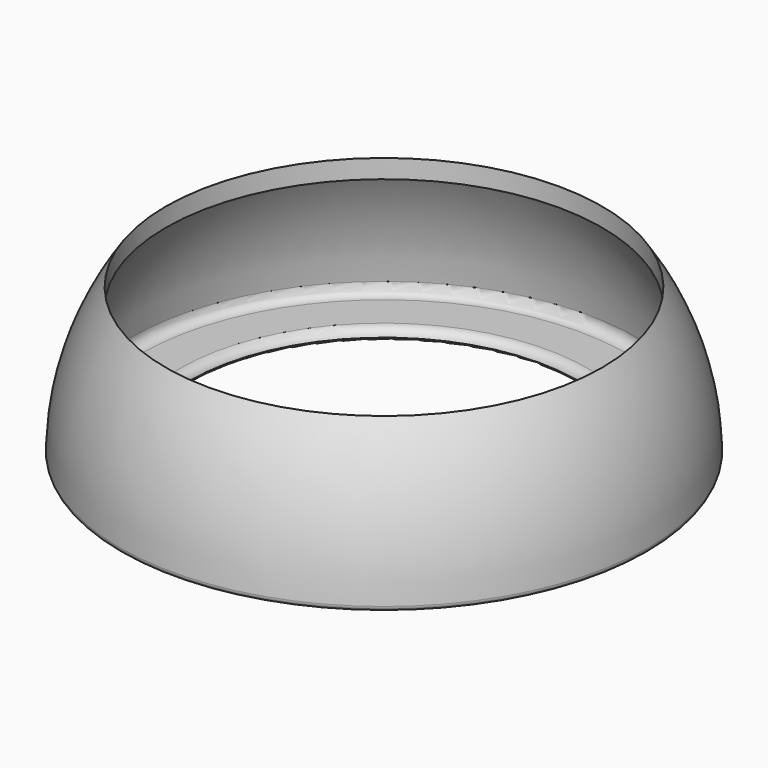
from build123d import *


with BuildPart() as f1:
    # F0 (on Front) → F1 (revolve)
    with BuildSketch(Plane.XZ):
        with BuildLine():
            Line((-43.383302, 25.883763), (-43.383302, 29.598001))
            ThreePointArc((-43.383302, 29.598001), (-50.029792, 15.97412), (-52.508222, 1.019411))
            ThreePointArc((-52.508222, 1.019411), (-52.222347, 0.29979), (-51.508411, 0))
            Line((-51.508411, 0), (-39.505134, 0))
            ThreePointArc((-39.505134, 0), (-38.926335, 0.18453), (-38.561147, 0.670017))
            ThreePointArc((-38.561147, 0.670017), (-39.268209, 1.771629), (-40.505134, 2.2))
            Line((-40.505134, 2.2), (-48.335987, 2.2))
            ThreePointArc((-48.335987, 2.2), (-49.810142, 2.848383), (-50.32848, 4.373131))
            ThreePointArc((-50.32848, 4.373131), (-48.074435, 15.521881), (-43.383302, 25.883763))
        make_face()
    revolve(axis=Axis((0, 0, 32.864001), (0, 0, 1)))


solid = f1.part
